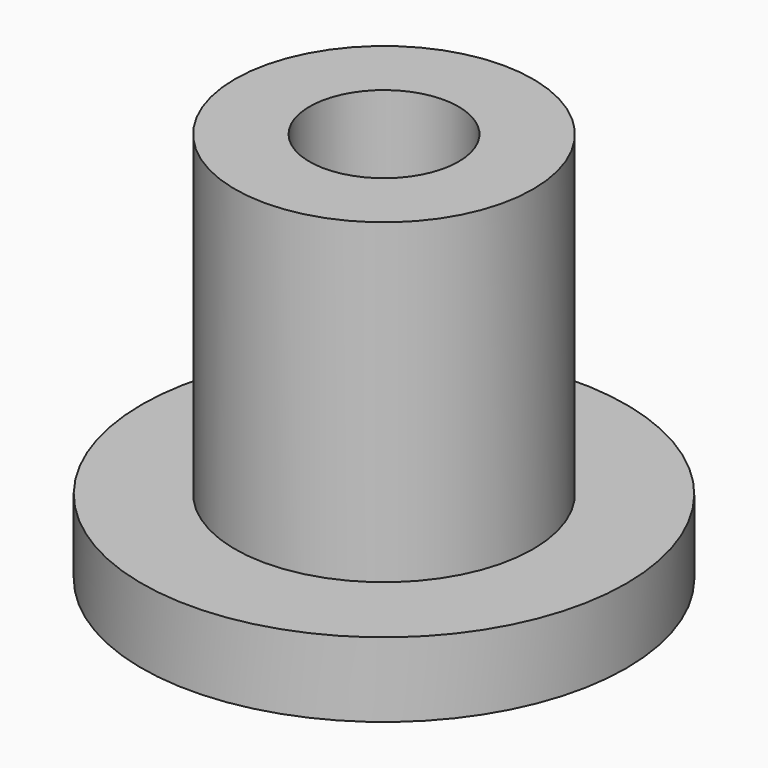
from build123d import *

# Parameters (mm, degrees)
F0_R     = 4
F0_R_2   = 2
F1_DEPTH = 8.5
F2_R     = 6.5
F3_DEPTH = 2
F4_DEPTH = 3


with BuildPart() as f1:
    # F0 (on Top) → F1 (new body)
    with BuildSketch(Plane.XY):
        Circle(F0_R)
        Circle(F0_R_2, mode=Mode.SUBTRACT)
    extrude(amount=F1_DEPTH)

    # F2 (on Top) → F3 (join)
    with BuildSketch(Plane.XY):
        Circle(F2_R)
    extrude(amount=-F3_DEPTH)

    # F0 (on Top) → F4 (cut)
    with BuildSketch(Plane.XY):
        Circle(F0_R_2)
    extrude(amount=-F4_DEPTH, mode=Mode.SUBTRACT)


solid = f1.part
